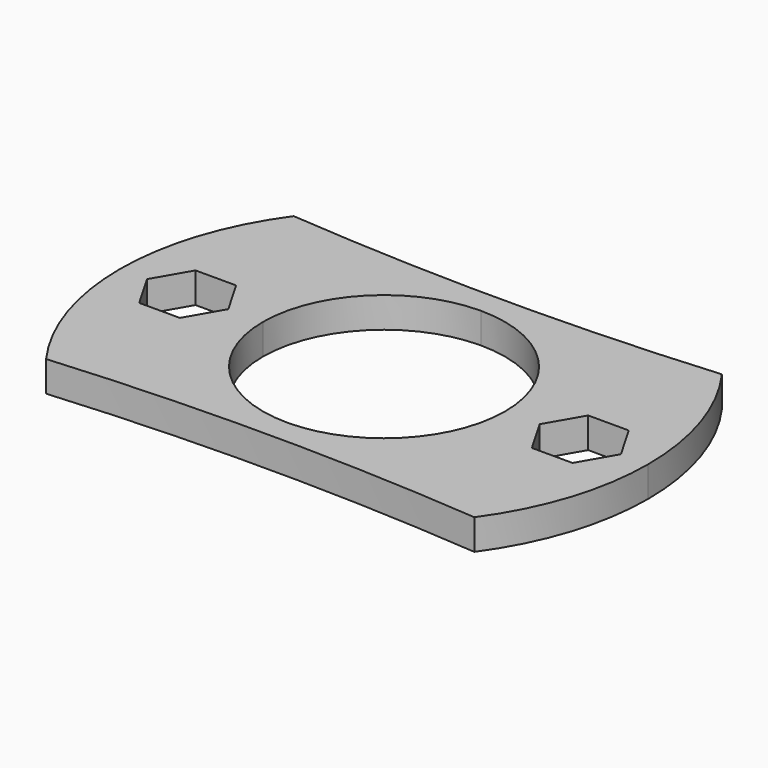
from build123d import *

# Parameters (mm, degrees)
F1_DEPTH = 3


with BuildPart() as f1:
    # F0 (on Top) → F1 (new body)
    with BuildSketch(Plane.XY):
        with BuildLine():
            ThreePointArc((21.053163, -15.215994), (24.714803, -7.99629), (25.976184, 0))
            ThreePointArc((25.976184, 0), (24.714803, 7.99629), (21.053163, 15.215994))
            ThreePointArc((21.053163, 15.215994), (0, 14.364535), (-21.053163, 15.215994))
            ThreePointArc((-21.053163, 15.215994), (-24.714803, 7.99629), (-25.976184, 0))
            ThreePointArc((-25.976184, 0), (-24.714803, -7.99629), (-21.053163, -15.215994))
            ThreePointArc((-21.053163, -15.215994), (0, -14.364535), (21.053163, -15.215994))
        make_face()
        with BuildLine():
            ThreePointArc((0, 11.905751), (8.418637, 8.418637), (11.905751, 0))
            ThreePointArc((11.905751, 0), (8.418637, -8.418637), (0, -11.905751))
            ThreePointArc((0, -11.905751), (-8.418637, -8.418637), (-11.905751, 0))
            ThreePointArc((-11.905751, 0), (-8.418637, 8.418637), (0, 11.905751))
        make_face(mode=Mode.SUBTRACT)
        Polygon((-17.306144, 3.459771), (-15.308644, 0), (-17.306144, -3.459771), (-21.301144, -3.459771), (-23.298644, 0), (-21.301144, 3.459771), align=None, mode=Mode.SUBTRACT)
        Polygon((17.306144, 3.459771), (21.301144, 3.459771), (23.298644, 0), (21.301144, -3.459771), (17.306144, -3.459771), (15.308644, 0), align=None, mode=Mode.SUBTRACT)
    extrude(amount=F1_DEPTH)


solid = f1.part
